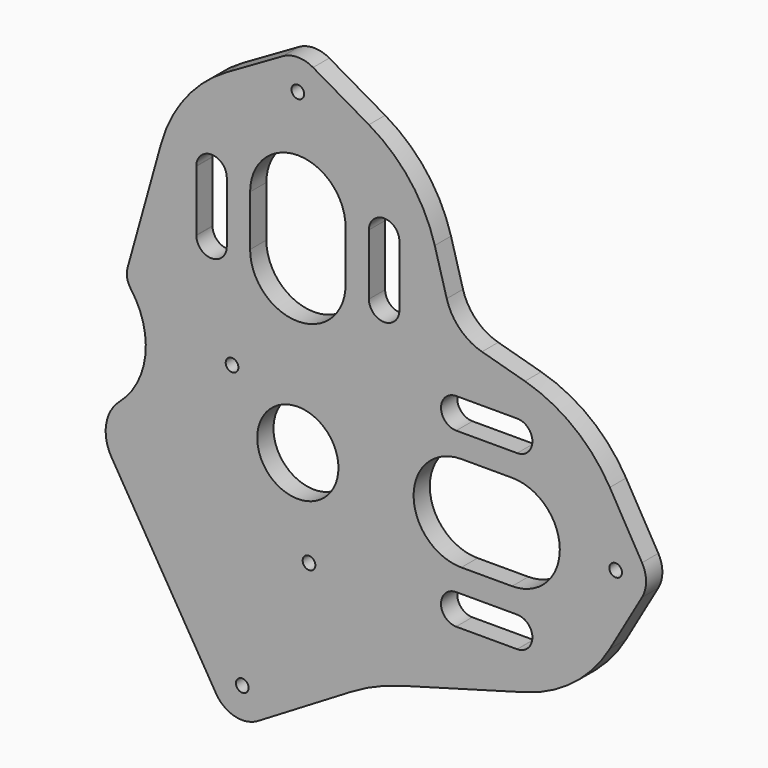
from build123d import *

# Parameters (mm, degrees)
F0_R     = 0.625
F0_R_2   = 4
F1_DEPTH = 2


with BuildPart() as f1:
    # F0 (on Front) → F1 (new body)
    with BuildSketch(Plane.XZ):
        with BuildLine():
            ThreePointArc((-17.552148, -1.263062), (-18.877937, -3.655988), (-18.355769, -6.341347))
            Line((-18.355769, -6.341347), (-8.04557, -23.5004))
            ThreePointArc((-8.04557, -23.5004), (-6.199833, -24.866173), (-3.928953, -24.526788))
            Line((-3.928953, -24.526788), (5.264061, -19.003068))
            ThreePointArc((5.264061, -19.003068), (7.654891, -17.777065), (10.188478, -16.882589))
            Line((10.188478, -16.882589), (22.363441, -13.484677))
            ThreePointArc((22.363441, -13.484677), (27.181397, -11.061629), (30.725984, -6.997178))
            Line((30.725984, -6.997178), (33.898425, -1.499395))
            ThreePointArc((33.898425, -1.499395), (34.3, 0), (33.898425, 1.499395))
            Line((33.898425, 1.499395), (30.725984, 6.997178))
            ThreePointArc((30.725984, 6.997178), (27.181397, 11.061629), (22.363441, 13.484677))
            Line((22.363441, 13.484677), (18.1363, 14.66443))
            ThreePointArc((18.1363, 14.66443), (15.944852, 15.944852), (14.66443, 18.1363))
            Line((14.66443, 18.1363), (13.484677, 22.363441))
            ThreePointArc((13.484677, 22.363441), (11.061629, 27.181397), (6.997178, 30.725984))
            Line((6.997178, 30.725984), (1.499395, 33.898425))
            ThreePointArc((1.499395, 33.898425), (0, 34.3), (-1.499395, 33.898425))
            Line((-1.499395, 33.898425), (-6.997178, 30.725984))
            ThreePointArc((-6.997178, 30.725984), (-11.061629, 27.181397), (-13.484677, 22.363441))
            Line((-13.484677, 22.363441), (-16.76984, 10.592467))
            ThreePointArc((-16.76984, 10.592467), (-16.810073, 9.690932), (-16.449911, 8.863486))
            ThreePointArc((-16.449911, 8.863486), (-15.01815, 3.584383), (-17.552148, -1.263062))
        make_face()
        with Locations((-5.474068, -21.955286)):
            Circle(F0_R, mode=Mode.SUBTRACT)
        with Locations((1.1, -9.184362)):
            Circle(F0_R, mode=Mode.SUBTRACT)
        Circle(F0_R_2, mode=Mode.SUBTRACT)
        with BuildLine():
            Line((18.6, -7), (21.6, -7))
            ThreePointArc((21.6, -7), (23.09998, -8.492292), (21.615416, -9.999921))
            ThreePointArc((21.615416, -9.999921), (21.6, -10), (21.584584, -9.999921))
            Line((21.584584, -9.999921), (18.6, -9.999921))
            Line((18.6, -9.999921), (15.615416, -9.999921))
            Line((15.615416, -9.999921), (15.584584, -9.999921))
            ThreePointArc((15.584584, -9.999921), (14.10002, -8.492292), (15.6, -7))
            Line((15.6, -7), (18.6, -7))
        make_face(mode=Mode.SUBTRACT)
        with BuildLine():
            ThreePointArc((16.1, -4.7), (11.4, 0), (16.1, 4.7))
            Line((16.1, 4.7), (21.1, 4.7))
            ThreePointArc((21.1, 4.7), (25.8, 0), (21.1, -4.7))
            Line((21.1, -4.7), (16.1, -4.7))
        make_face(mode=Mode.SUBTRACT)
        with Locations((31.3, 0)):
            Circle(F0_R, mode=Mode.SUBTRACT)
        with Locations((-6.480741, 5.5)):
            Circle(F0_R, mode=Mode.SUBTRACT)
        with BuildLine():
            ThreePointArc((-9.999921, 21.615416), (-8.492292, 23.09998), (-7, 21.6))
            Line((-7, 21.6), (-7, 18.6))
            Line((-7, 18.6), (-7, 15.6))
            ThreePointArc((-7, 15.6), (-8.492292, 14.10002), (-9.999921, 15.584584))
            ThreePointArc((-9.999921, 15.584584), (-10, 15.6), (-9.999921, 15.615416))
            Line((-9.999921, 15.615416), (-9.999921, 18.6))
            Line((-9.999921, 18.6), (-9.999921, 21.584584))
            ThreePointArc((-9.999921, 21.584584), (-10, 21.6), (-9.999921, 21.615416))
        make_face(mode=Mode.SUBTRACT)
        with BuildLine():
            ThreePointArc((4.7, 16.1), (0, 11.4), (-4.7, 16.1))
            Line((-4.7, 16.1), (-4.7, 21.1))
            ThreePointArc((-4.7, 21.1), (0, 25.8), (4.7, 21.1))
            Line((4.7, 21.1), (4.7, 16.1))
        make_face(mode=Mode.SUBTRACT)
        with Locations((0, 31.3)):
            Circle(F0_R, mode=Mode.SUBTRACT)
        with BuildLine():
            Line((21.584584, 9.999921), (21.615416, 9.999921))
            ThreePointArc((21.615416, 9.999921), (23.09998, 8.492292), (21.6, 7))
            Line((21.6, 7), (18.6, 7))
            Line((18.6, 7), (15.6, 7))
            ThreePointArc((15.6, 7), (14.10002, 8.492292), (15.584584, 9.999921))
            Line((15.584584, 9.999921), (15.615416, 9.999921))
            Line((15.615416, 9.999921), (18.6, 9.999921))
            Line((18.6, 9.999921), (21.584584, 9.999921))
        make_face(mode=Mode.SUBTRACT)
        with BuildLine():
            ThreePointArc((9.999921, 15.584584), (8.492292, 14.10002), (7, 15.6))
            Line((7, 15.6), (7, 18.6))
            Line((7, 18.6), (7, 21.6))
            ThreePointArc((7, 21.6), (8.492292, 23.09998), (9.999921, 21.615416))
            Line((9.999921, 21.615416), (9.999921, 21.584584))
            Line((9.999921, 21.584584), (9.999921, 18.6))
            Line((9.999921, 18.6), (9.999921, 15.615416))
            ThreePointArc((9.999921, 15.615416), (10, 15.6), (9.999921, 15.584584))
        make_face(mode=Mode.SUBTRACT)
    extrude(amount=F1_DEPTH)


solid = f1.part
